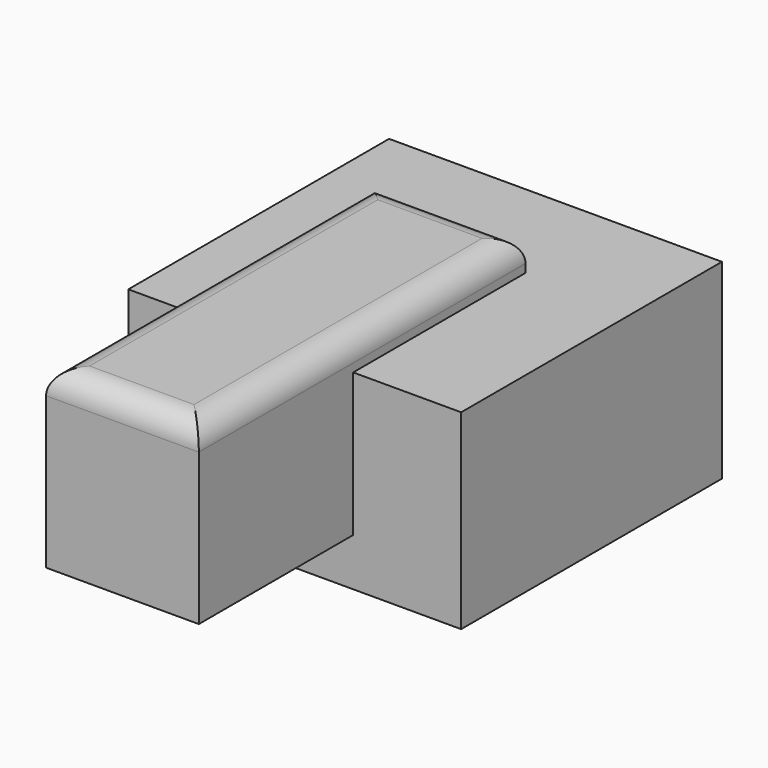
from build123d import *

# Parameters (mm, degrees)
F0_W     = 69.961674
F0_H     = 68.511577
F1_DEPTH = 40.132
F2_W     = 32.101594
F2_H     = 36.901384
F3_DEPTH = 85.852
F4_R     = 5.08


with BuildPart() as f1:
    # F0 (on Top) → F1 (new body)
    with BuildSketch(Plane.XY):
        with Locations((5.486086, -11.040198)):
            Rectangle(F0_W, F0_H)
    extrude(amount=F1_DEPTH)

    # F2 (on Front) → F3 (join)
    with BuildSketch(Plane.XZ):
        with Locations((1.719728, 28.49517)):
            Rectangle(F2_W, F2_H)
    extrude(amount=F3_DEPTH)

    # F4
    f4_edges = [f1.edges().sort_by_distance(p)[0] for p in [
        (17.770525, -42.926, 46.945862),
        (-14.331069, -42.926, 46.945862),
        (1.719728, 0, 46.945862),
        (1.719728, -85.852, 46.945862),
    ]]
    fillet(f4_edges, radius=F4_R)


solid = f1.part
